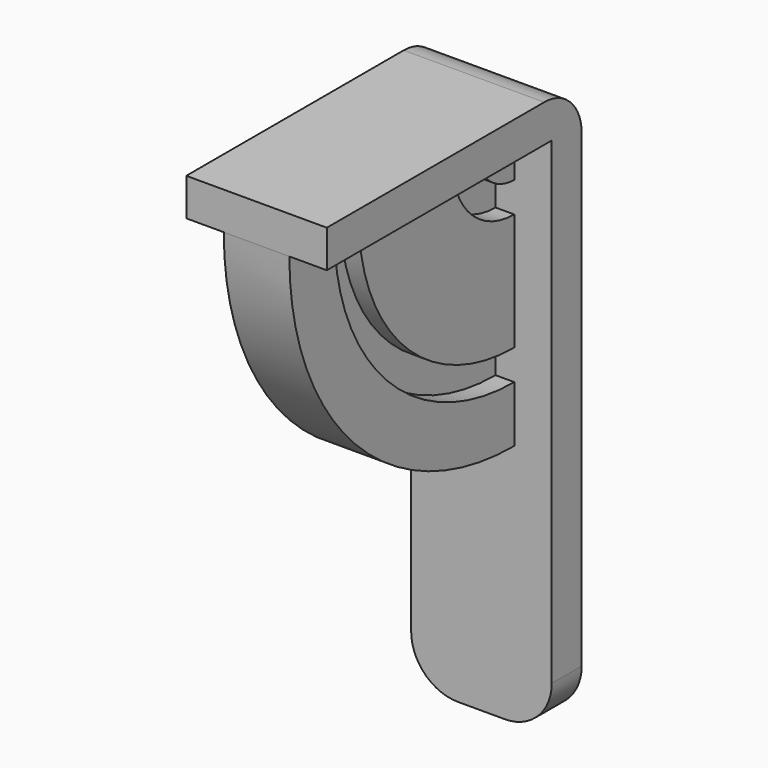
from build123d import *

# Parameters (mm, degrees)
F0_W     = 15
F0_H     = 60
F1_DEPTH = 4
F2_W     = 15
F2_H     = 4
F3_DEPTH = 30
F5_ANGLE = -90
F8_R     = 5
F9_R     = 5


with BuildPart() as f1:
    # F0 (on Front) → F1 (new body)
    with BuildSketch(Plane.XZ):
        with Locations((2.568068, 0.993193)):
            Rectangle(F0_W, F0_H)
    extrude(amount=F1_DEPTH)

    # F2 (on face) → F3 (join)
    with BuildSketch(Plane.XZ.offset(4)):
        with Locations((2.568068, 28.993193)):
            Rectangle(F2_W, F2_H)
    extrude(amount=F3_DEPTH)

    # F4 (on face) → F5 (revolve)
    with BuildSketch(Plane(origin=(0, 0, 26.993193), x_dir=(1, 0, 0), z_dir=(0, 0, -1))):
        Polygon((6.068068, 28), (6.068068, 34), (-0.931932, 34), (-0.931932, 28), (1.068068, 28), (1.068068, 24.75), (-0.931932, 24.75), (-0.931932, 12.25), (1.068068, 12.25), (1.068068, 9), (-0.931932, 9), (-0.931932, 4), (6.068068, 4), (6.068068, 9), (4.068068, 9), (4.068068, 12.25), (6.068068, 12.25), (6.068068, 24.75), (4.068068, 24.75), (4.068068, 28), align=None)
    revolve(axis=Axis((2.568068, -4, 26.993193), (-1, 0, 0)), revolution_arc=F5_ANGLE)

    # F8
    f8_edges = [f1.edges().sort_by_distance(p)[0] for p in [
        (2.568068, 0, 30.993193),
    ]]
    fillet(f8_edges, radius=F8_R)

    # F9
    f9_edges = [f1.edges().sort_by_distance(p)[0] for p in [
        (10.068068, -2, -29.006807),
        (-4.931932, -2, -29.006807),
    ]]
    fillet(f9_edges, radius=F9_R)


solid = f1.part
